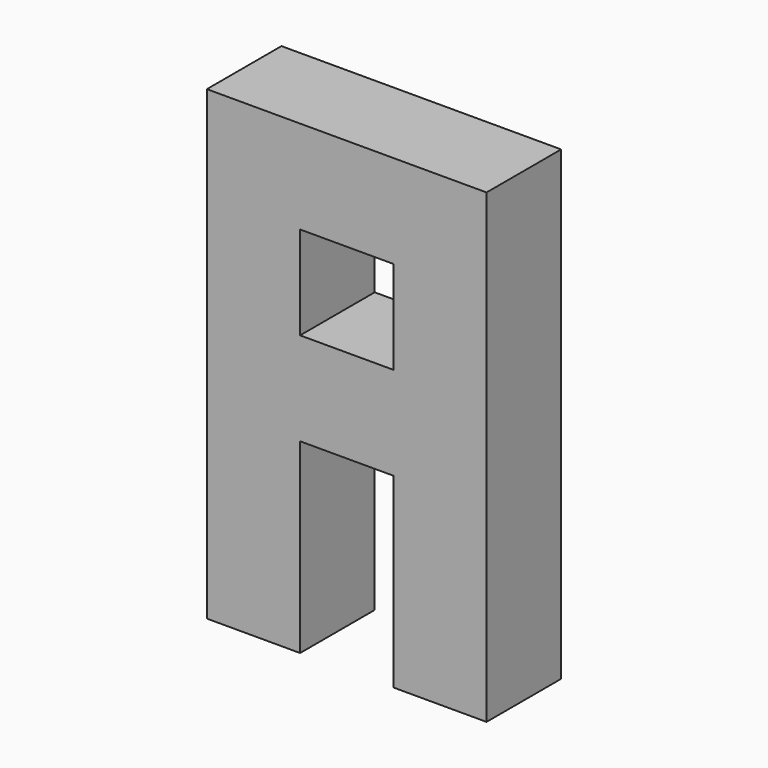
from build123d import *

# Parameters (mm, degrees)
F0_W     = 76.2
F0_H     = 127
F1_DEPTH = 25.4
F2_W     = 25.4
F2_H     = 50.8
F3_DEPTH = 25.401
F4_W     = 25.4
F4_H     = 25.4
F5_DEPTH = 25.401


with BuildPart() as f1:
    # F0 (on Front) → F1 (new body)
    with BuildSketch(Plane.XZ):
        Rectangle(F0_W, F0_H)
    extrude(amount=F1_DEPTH)

    # F2 (on face) → F3 (cut, through all)
    with BuildSketch(Plane.XZ.offset(25.4)):
        with Locations((0, -38.1)):
            Rectangle(F2_W, F2_H)
    extrude(amount=-F3_DEPTH, mode=Mode.SUBTRACT)

    # F4 (on face) → F5 (cut, through all)
    with BuildSketch(Plane.XZ.offset(25.4)):
        with Locations((0, 25.4)):
            Rectangle(F4_W, F4_H)
    extrude(amount=-F5_DEPTH, mode=Mode.SUBTRACT)


solid = f1.part
